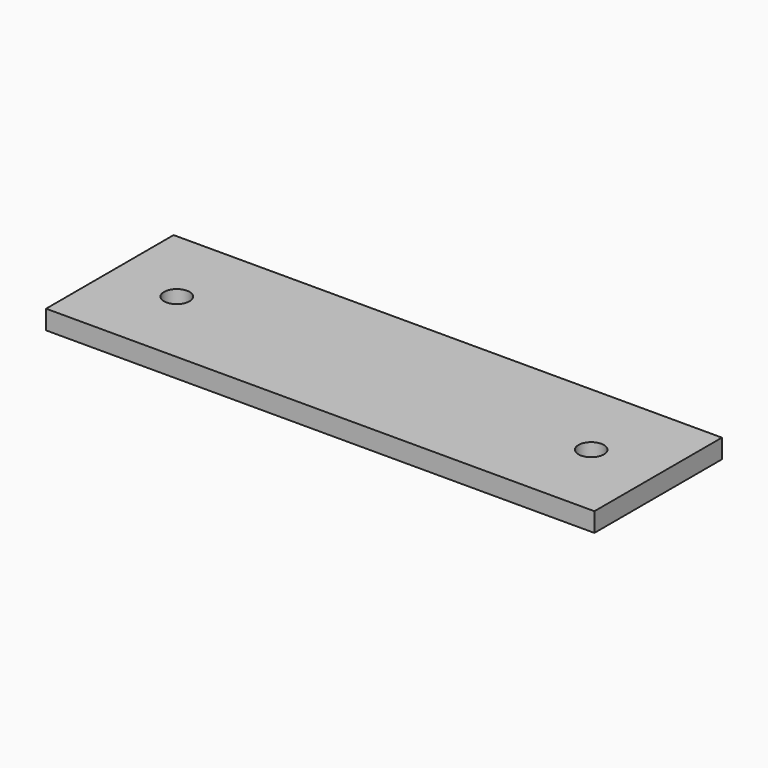
from build123d import *

# Parameters (mm, degrees)
SKETCH_W  = 86
SKETCH_H  = 25
SKETCH_R  = 2
PAD_DEPTH = 3


with BuildPart() as part:
    # Sketch → Pad (new body)
    with BuildSketch(Plane.XY):
        Rectangle(SKETCH_W, SKETCH_H)
        with Locations((-32.5, 0)):
            Circle(SKETCH_R, mode=Mode.SUBTRACT)
        with Locations((32.5, 0)):
            Circle(SKETCH_R, mode=Mode.SUBTRACT)
    extrude(amount=PAD_DEPTH)


solid = part.part
